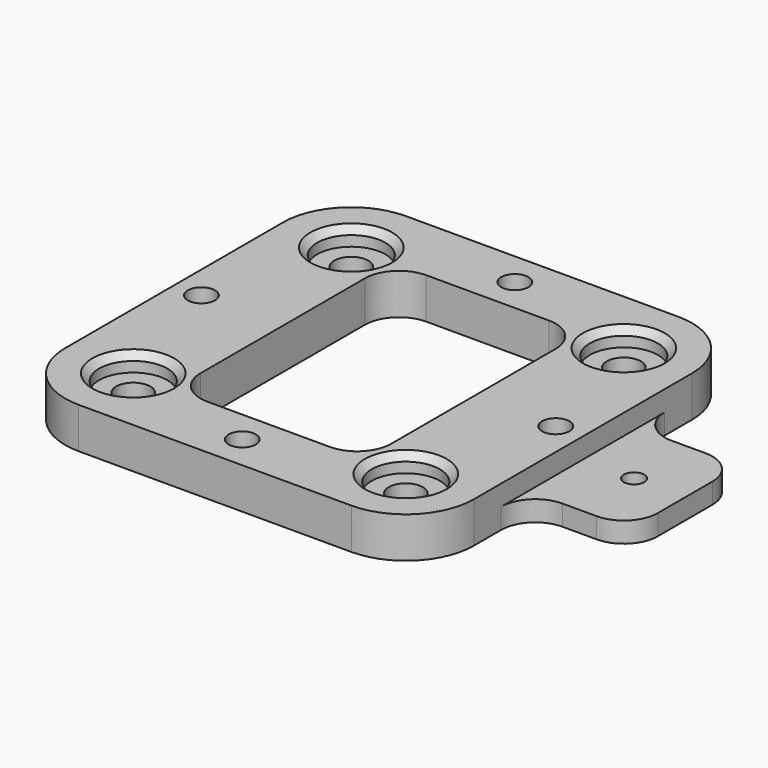
from build123d import *

# Parameters (mm, degrees)
F0_R     = 5
F0_R_2   = 2
F0_W     = 28
F0_H     = 40.175457
F1_DEPTH = 6
F0_R_3   = 2.5
F2_DEPTH = 3.5
F0_W_2   = 15
F0_H_2   = 20
F0_R_4   = 1.5
F3_DEPTH = 3
F4_R     = 10
F5_R     = 5
F6_SIZE  = 1


with BuildPart() as f1:
    # F0 (on Top) → F1 (new body)
    with BuildSketch(Plane.XY):
        Polygon((-28.548011, 39.848171), (-88.548011, 39.848171), (-88.548011, -20.151829), (-28.548011, -20.151829), (-28.548011, -0.151829), (-28.548011, 19.848171), align=None)
        with Locations((-78.548011, -10.151829)):
            Circle(F0_R, mode=Mode.SUBTRACT)
        with Locations((-58.548011, -15.151829)):
            Circle(F0_R_2, mode=Mode.SUBTRACT)
        with Locations((-84.548011, 9.848171)):
            Circle(F0_R_2, mode=Mode.SUBTRACT)
        with Locations((-58.548011, 9.760442)):
            Rectangle(F0_W, F0_H, mode=Mode.SUBTRACT)
        with Locations((-38.548011, -10.151829)):
            Circle(F0_R, mode=Mode.SUBTRACT)
        with Locations((-78.548011, 29.848171)):
            Circle(F0_R, mode=Mode.SUBTRACT)
        with Locations((-58.548011, 34.848171)):
            Circle(F0_R_2, mode=Mode.SUBTRACT)
        with Locations((-32.548011, 9.848171)):
            Circle(F0_R_2, mode=Mode.SUBTRACT)
        with Locations((-38.548011, 29.848171)):
            Circle(F0_R, mode=Mode.SUBTRACT)
    extrude(amount=F1_DEPTH)

    # F0 (on Top) → F2 (join)
    with BuildSketch(Plane.XY):
        with Locations((-78.548011, 29.848171)):
            Circle(F0_R)
        with Locations((-78.548011, 29.848171)):
            Circle(F0_R_3, mode=Mode.SUBTRACT)
        with Locations((-78.548011, -10.151829)):
            Circle(F0_R)
        with Locations((-78.548011, -10.151829)):
            Circle(F0_R_3, mode=Mode.SUBTRACT)
        with Locations((-38.548011, 29.848171)):
            Circle(F0_R)
        with Locations((-38.548011, 29.848171)):
            Circle(F0_R_3, mode=Mode.SUBTRACT)
        with Locations((-38.548011, -10.151829)):
            Circle(F0_R)
        with Locations((-38.548011, -10.151829)):
            Circle(F0_R_3, mode=Mode.SUBTRACT)
    extrude(amount=F2_DEPTH)

    # F0 (on Top) → F3 (join)
    with BuildSketch(Plane.XY):
        with Locations((-21.048011, 9.848171)):
            Rectangle(F0_W_2, F0_H_2)
        with Locations((-21.048011, 9.848171)):
            Circle(F0_R_4, mode=Mode.SUBTRACT)
    extrude(amount=F3_DEPTH)

    # F4
    f4_edges = [f1.edges().sort_by_distance(p)[0] for p in [
        (-88.548011, 39.848171, 3),
        (-88.548011, -20.151829, 3),
        (-28.548011, -20.151829, 3),
        (-28.548011, 39.848171, 3),
    ]]
    fillet(f4_edges, radius=F4_R)

    # F5
    f5_edges = [f1.edges().sort_by_distance(p)[0] for p in [
        (-44.548011, 29.848171, 3),
        (-72.548011, 29.848171, 3),
        (-72.548011, -10.327286, 3),
        (-44.548011, -10.327286, 3),
        (-28.548011, -0.151829, 1.5),
        (-28.548011, 19.848171, 1.5),
        (-13.548011, -0.151829, 1.5),
        (-13.548011, 19.848171, 1.5),
    ]]
    fillet(f5_edges, radius=F5_R)

    # F6
    f6_edges = [f1.edges().sort_by_distance(p)[0] for p in [
        (-83.548011, 29.848171, 6),
        (-83.548011, -10.151829, 6),
        (-43.548011, 29.848171, 6),
        (-43.548011, -10.151829, 6),
    ]]
    chamfer(f6_edges, length=F6_SIZE)


solid = f1.part
